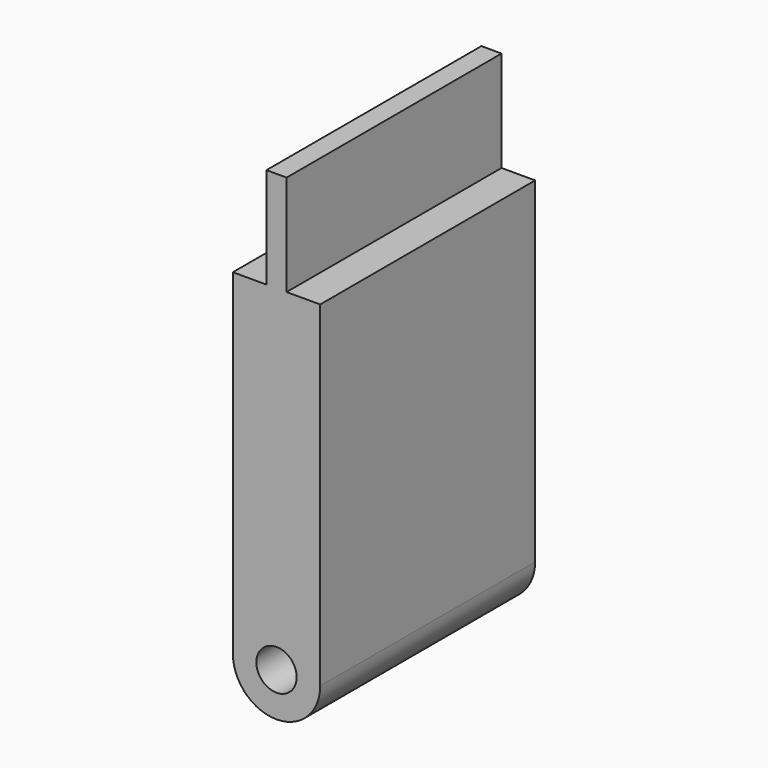
from build123d import *

# Parameters (mm, degrees)
F0_R     = 3
F1_DEPTH = 40


with BuildPart() as f1:
    # F0 (on Front) → F1 (new body)
    with BuildSketch(Plane.XZ):
        with BuildLine():
            Line((-6.5, 50), (-6.5, 0))
            ThreePointArc((-6.5, 0), (0, -6.5), (6.5, 0))
            Line((6.5, 0), (6.5, 50))
            Line((6.5, 50), (1.5, 50))
            Line((1.5, 50), (1.5, 65))
            Line((1.5, 65), (-1.5, 65))
            Line((-1.5, 65), (-1.5, 50))
            Line((-1.5, 50), (-6.5, 50))
        make_face()
        Circle(F0_R, mode=Mode.SUBTRACT)
    extrude(amount=F1_DEPTH)


solid = f1.part
